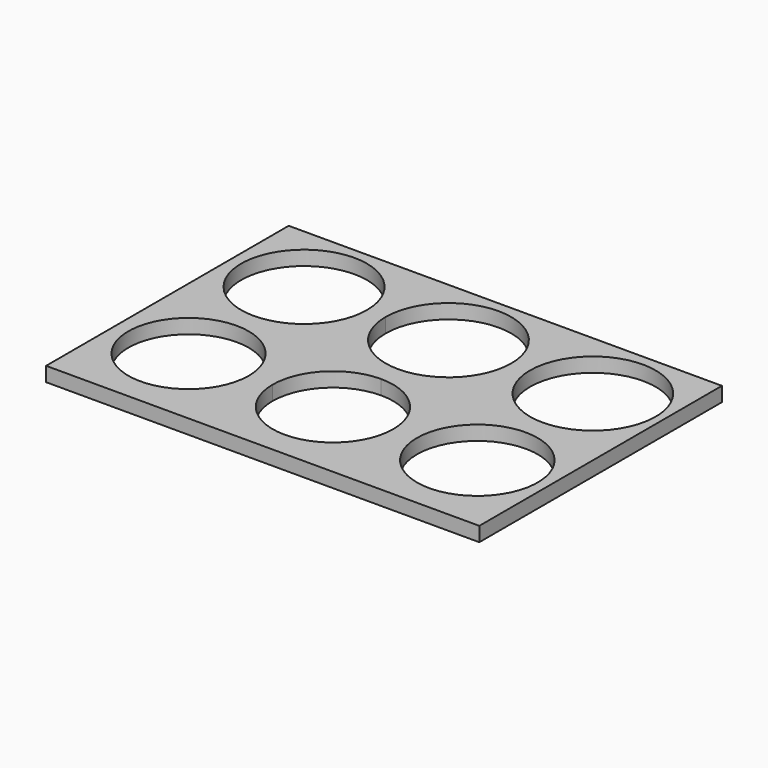
from build123d import *

# Parameters (mm, degrees)
F0_R     = 10.5918
F0_R_2   = 11.0617
F1_DEPTH = 2.54


with BuildPart() as f1:
    # F0 (on Top) → F1 (new body)
    with BuildSketch(Plane.XY):
        Polygon((37.805012, 12.867026), (0, 12.867026), (-38.394988, 12.867026), (-38.394988, -15.072974), (37.805012, -15.072974), align=None)
        with Locations((-25.4, 0)):
            Circle(F0_R, mode=Mode.SUBTRACT)
        with BuildLine():
            ThreePointArc((0, 10.6045), (7.498514, 7.498514), (10.6045, 0))
            ThreePointArc((10.6045, 0), (0, -10.6045), (-10.6045, 0))
            ThreePointArc((-10.6045, 0), (-7.498514, 7.498514), (0, 10.6045))
        make_face(mode=Mode.SUBTRACT)
        with BuildLine():
            ThreePointArc((36.0172, 0), (25.4, -10.6172), (14.7828, 0))
            ThreePointArc((14.7828, 0), (25.4, 10.6172), (36.0172, 0))
        make_face(mode=Mode.SUBTRACT)
        Polygon((-38.394988, 12.867026), (0, 12.867026), (37.805012, 12.867026), (37.805012, 38.267026), (-38.394988, 38.267026), align=None)
        with Locations((-25.4, 25.4)):
            Circle(F0_R_2, mode=Mode.SUBTRACT)
        with BuildLine():
            ThreePointArc((11.049, 25.4), (7.812823, 17.587177), (0, 14.351))
            ThreePointArc((0, 14.351), (-7.812823, 17.587177), (-11.049, 25.4))
            ThreePointArc((-11.049, 25.4), (0, 36.449), (11.049, 25.4))
        make_face(mode=Mode.SUBTRACT)
        with BuildLine():
            ThreePointArc((36.4363, 25.4), (25.4, 14.3637), (14.3637, 25.4))
            ThreePointArc((14.3637, 25.4), (25.4, 36.4363), (36.4363, 25.4))
        make_face(mode=Mode.SUBTRACT)
    extrude(amount=F1_DEPTH)


solid = f1.part
